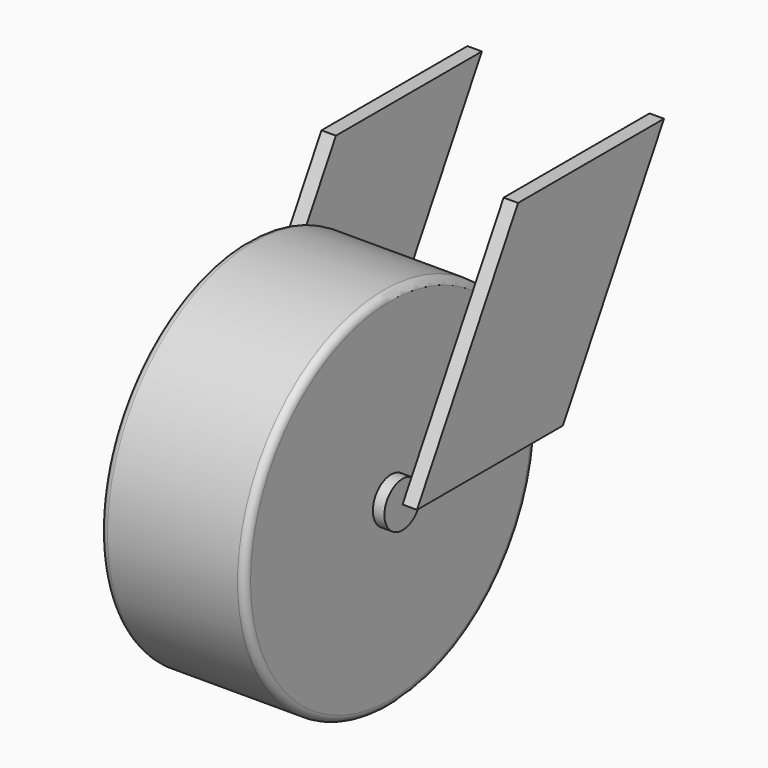
from build123d import *

# Parameters (mm, degrees)
F0_R      = 32.113527
F1_DEPTH  = 25.4
F2_R      = 1.27
F3_R      = 1.27
F4_R      = 3.9751
F5_DEPTH  = 2.032
F7_R      = 3.9751
F8_DEPTH  = 2.032
F10_DEPTH = 2.54
F12_DEPTH = 2.54


with BuildPart() as f1:
    # F0 (on Right) → F1 (new body)
    with BuildSketch(Plane.YZ):
        Circle(F0_R)
    extrude(amount=F1_DEPTH)

    # F2
    f2_edges = [f1.edges().sort_by_distance(p)[0] for p in [
        (25.4, -32.113527, 0),
    ]]
    fillet(f2_edges, radius=F2_R)

    # F3
    f3_edges = [f1.edges().sort_by_distance(p)[0] for p in [
        (0, -32.113527, 0),
    ]]
    fillet(f3_edges, radius=F3_R)

    # F4 (on face) → F5 (join)
    with BuildSketch(Plane.YZ.offset(25.4)):
        Circle(F4_R)
    extrude(amount=F5_DEPTH)

    # F7 (on face) → F8 (join)
    with BuildSketch(Plane(origin=(0, 0, 0), x_dir=(0, -1, 0), z_dir=(-1, 0, 0))):
        Circle(F7_R)
    extrude(amount=F8_DEPTH)

    # F9 (on face) → F10 (join)
    with BuildSketch(Plane(origin=(-2.032, 0, 0), x_dir=(0, -1, 0), z_dir=(-1, 0, 0))):
        with BuildLine():
            ThreePointArc((-3.9751, 0), (-3.442538, 1.98755), (-1.98755, 3.442538))
            Line((-1.98755, 3.442538), (-22.197079, 38.446468))
            Line((-22.197079, 38.446468), (-54.258845, 38.446468))
            Line((-54.258845, 38.446468), (-32.061767, 0))
            Line((-32.061767, 0), (-3.9751, 0))
        make_face()
        with BuildLine():
            Line((-3.9751, 0), (0, 0))
            Line((0, 0), (-1.98755, 3.442538))
            ThreePointArc((-1.98755, 3.442538), (-3.442538, 1.98755), (-3.9751, 0))
        make_face()
    extrude(amount=F10_DEPTH)

    # F11 (on face) → F12 (join)
    with BuildSketch(Plane.YZ.offset(27.432)):
        Polygon((32.061767, 0), (54.258845, 38.446468), (22.197079, 38.446468), (0, 0), align=None)
    extrude(amount=F12_DEPTH)


solid = f1.part
